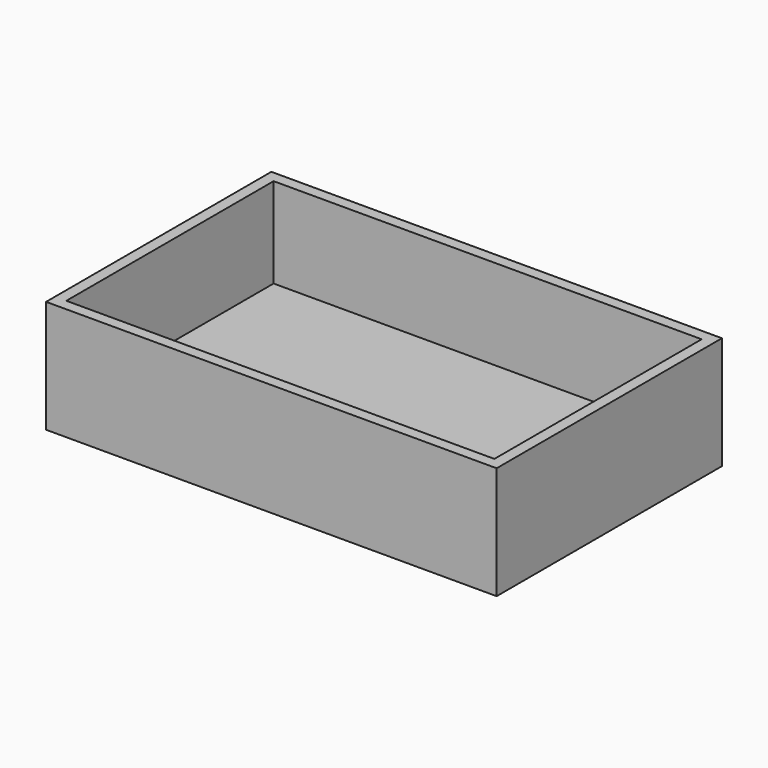
from build123d import *

# Parameters (mm, degrees)
SKETCH_W     = 80
SKETCH_H     = 50
PAD_DEPTH    = 20
SKETCH001_W  = 76
SKETCH001_H  = 46
POCKET_DEPTH = 16


with BuildPart() as part:
    # Sketch → Pad (new body)
    with BuildSketch(Plane.XY):
        with Locations((40, 25)):
            Rectangle(SKETCH_W, SKETCH_H)
    extrude(amount=PAD_DEPTH)

    # Sketch001 (on Face6 of Pad) → Pocket (cut)
    with BuildSketch(Plane.XY.offset(20)):
        with Locations((40, 25)):
            Rectangle(SKETCH001_W, SKETCH001_H)
    extrude(amount=-POCKET_DEPTH, mode=Mode.SUBTRACT)


solid = part.part
